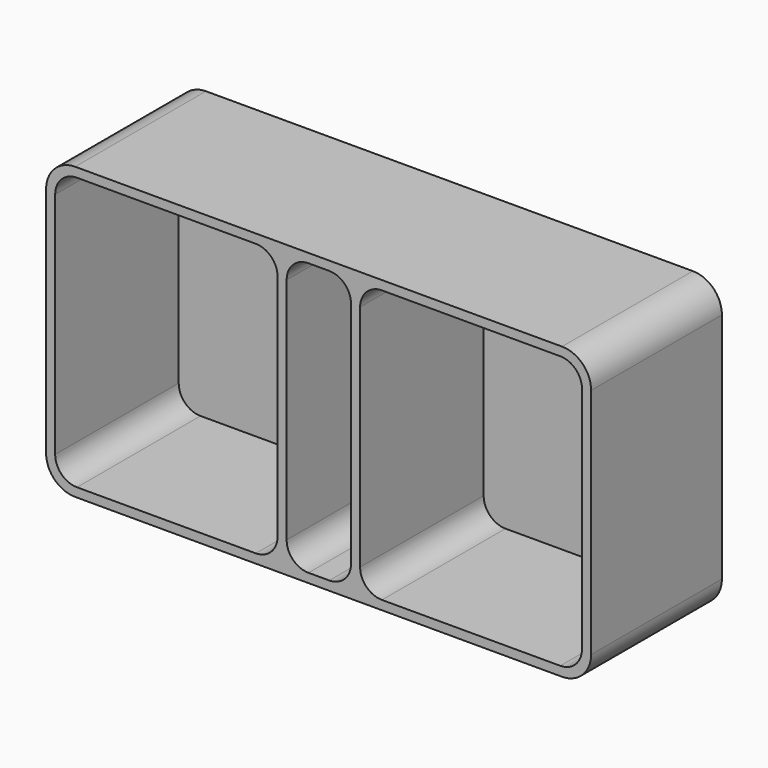
from build123d import *

# Parameters (mm, degrees)
F0_W     = 190.5
F0_H     = 101.6
F1_DEPTH = 3.175
F2_W     = 184.15
F2_H     = 3.175
F3_DEPTH = 53.975
F4_W     = 3.175
F4_H     = 95.25
F5_DEPTH = 53.975
F6_R     = 7.62
F7_R     = 7.62
F8_W     = 3.175
F8_H     = 95.25
F9_DEPTH = 53.975
F10_R    = 7.62
F11_R    = 7.62
F12_R    = 10.16


with BuildPart() as f1:
    # F0 (on Front) → F1 (new body)
    with BuildSketch(Plane.XZ):
        with Locations((13.3651066571, -10.7336564614)):
            Rectangle(F0_W, F0_H)
    extrude(amount=F1_DEPTH)

    # F2 (on face) → F3 (join)
    with BuildSketch(Plane.XZ.offset(3.175)):
        Polygon((108.6151066571, -61.5336564614), (108.6151066571, 40.0663435386), (105.4401066571, 40.0663435386), (105.4401066571, 36.8913435386), (105.4401066571, -58.3586564614), (105.4401066571, -61.5336564614), align=None)
        with Locations((13.3651066571, 38.4788435386)):
            Rectangle(F2_W, F2_H)
        Polygon((-78.7098933429, 36.8913435386), (-78.7098933429, 40.0663435386), (-81.8848933429, 40.0663435386), (-81.8848933429, -61.5336564614), (-78.7098933429, -61.5336564614), (-78.7098933429, -58.3586564614), align=None)
        with Locations((13.3651066571, -59.9461564614)):
            Rectangle(F2_W, F2_H)
    extrude(amount=F3_DEPTH)

    # F4 (on face) → F5 (join)
    with BuildSketch(Plane.XZ.offset(3.175)):
        with Locations((0.60594371, -10.7336564614)):
            Rectangle(F4_W, F4_H)
    extrude(amount=F5_DEPTH)

    # F6
    f6_edges = [f1.edges().sort_by_distance(p)[0] for p in [
        (-0.981556, -30.1625, -58.358656),
        (2.193444, -30.1625, 36.891344),
        (2.193444, -30.1625, -58.358656),
        (-0.981556, -30.1625, 36.891344),
    ]]
    fillet(f6_edges, radius=F6_R)

    # F7
    f7_edges = [f1.edges().sort_by_distance(p)[0] for p in [
        (-78.709893, -30.1625, -58.358656),
        (-78.709893, -30.1625, 36.891344),
    ]]
    fillet(f7_edges, radius=F7_R)

    # F8 (on face) → F9 (join)
    with BuildSketch(Plane.XZ.offset(3.175)):
        with Locations((26.2904159218, -10.7336564614)):
            Rectangle(F8_W, F8_H)
    extrude(amount=F9_DEPTH)

    # F10
    f10_edges = [f1.edges().sort_by_distance(p)[0] for p in [
        (24.702916, -30.1625, -58.358656),
        (24.702916, -30.1625, 36.891344),
        (27.877916, -30.1625, 36.891344),
        (27.877916, -30.1625, -58.358656),
    ]]
    fillet(f10_edges, radius=F10_R)

    # F11
    f11_edges = [f1.edges().sort_by_distance(p)[0] for p in [
        (105.440107, -30.1625, 36.891344),
        (105.440107, -30.1625, -58.358656),
    ]]
    fillet(f11_edges, radius=F11_R)

    # F12
    f12_edges = [f1.edges().sort_by_distance(p)[0] for p in [
        (-81.884893, -28.575, -61.533656),
        (108.615107, -28.575, -61.533656),
        (108.615107, -28.575, 40.066344),
        (-81.884893, -28.575, 40.066344),
    ]]
    fillet(f12_edges, radius=F12_R)


solid = f1.part
